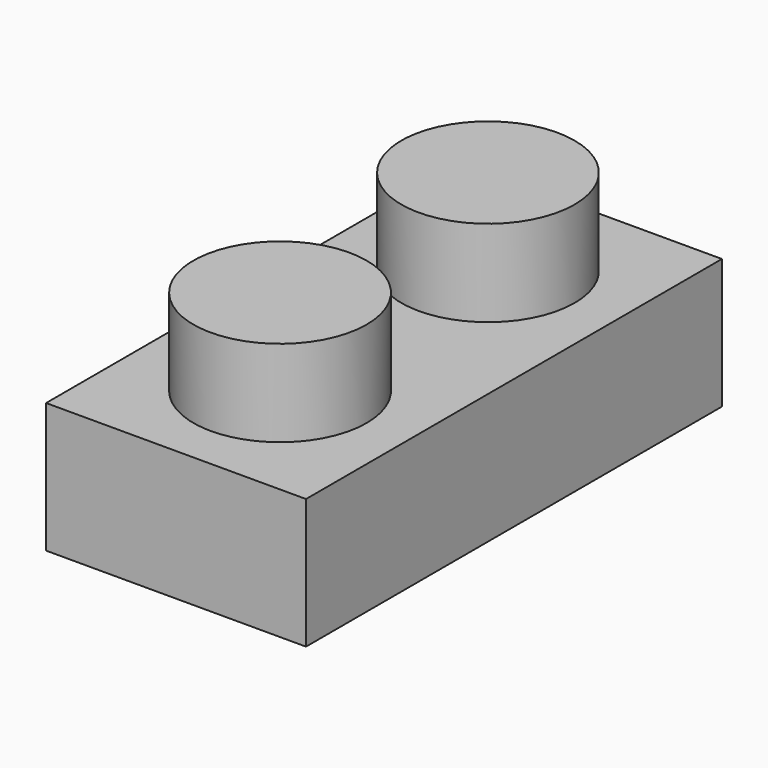
from build123d import *

# Parameters (mm, degrees)
F0_W     = 30
F0_H     = 60
F2_DEPTH = 15
F1_R     = 10
F3_DEPTH = 25


with BuildPart() as f2:
    # F0 (on Top) → F2 (new body)
    with BuildSketch(Plane.XY):
        with Locations((15, 30)):
            Rectangle(F0_W, F0_H)
    extrude(amount=F2_DEPTH)

    # F1 (on Top) → F3 (join)
    with BuildSketch(Plane.XY):
        with Locations((15, 15)):
            Circle(F1_R)
        with Locations((15, 45)):
            Circle(F1_R)
    extrude(amount=F3_DEPTH)


solid = f2.part
